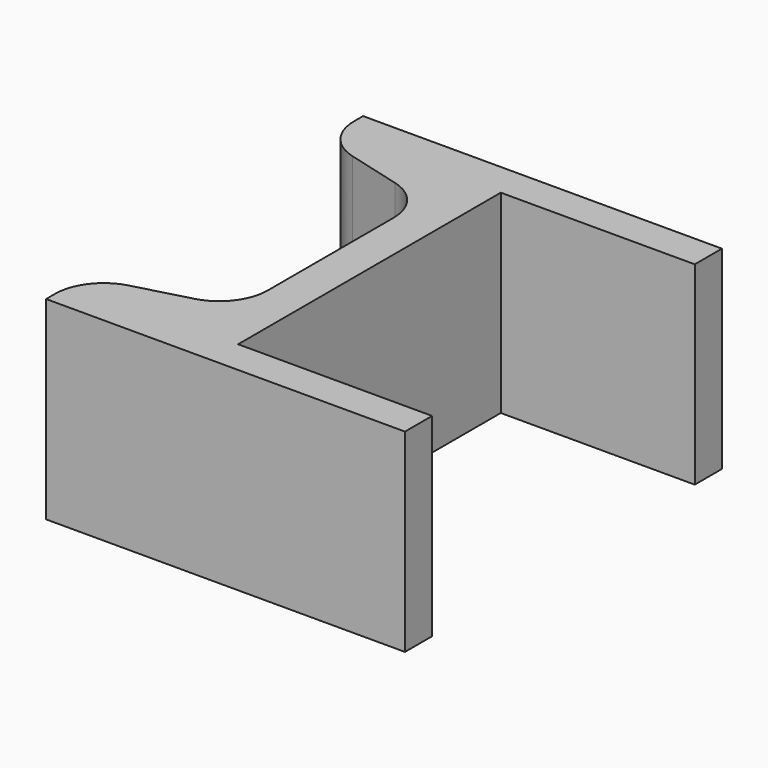
from build123d import *

# Parameters (mm, degrees)
F1_DEPTH = 20


with BuildPart() as f1:
    # F0 (on Top) → F1 (new body)
    with BuildSketch(Plane.XY):
        with BuildLine():
            Line((20, -3.5), (20, 0))
            Line((20, 0), (0, 0))
            Line((0, 0), (0, 33.85))
            Line((0, 33.85), (20, 33.85))
            Line((20, 33.85), (20, 37.35))
            Line((20, 37.35), (-17, 37.35))
            Line((-17, 37.35), (-17, 36.186635))
            ThreePointArc((-17, 36.186635), (-15.966767, 33.142828), (-13.294095, 31.357006))
            Line((-13.294095, 31.357006), (-7.705905, 29.859655))
            ThreePointArc((-7.705905, 29.859655), (-5.033233, 28.073833), (-4, 25.030026))
            Line((-4, 25.030026), (-4, 16.925))
            Line((-4, 16.925), (-4, 8.819974))
            ThreePointArc((-4, 8.819974), (-5.033233, 5.776167), (-7.705905, 3.990345))
            Line((-7.705905, 3.990345), (-13.294095, 2.492994))
            ThreePointArc((-13.294095, 2.492994), (-15.966767, 0.707172), (-17, -2.336635))
            Line((-17, -2.336635), (-17, -3.5))
            Line((-17, -3.5), (20, -3.5))
        make_face()
    extrude(amount=F1_DEPTH)


solid = f1.part
